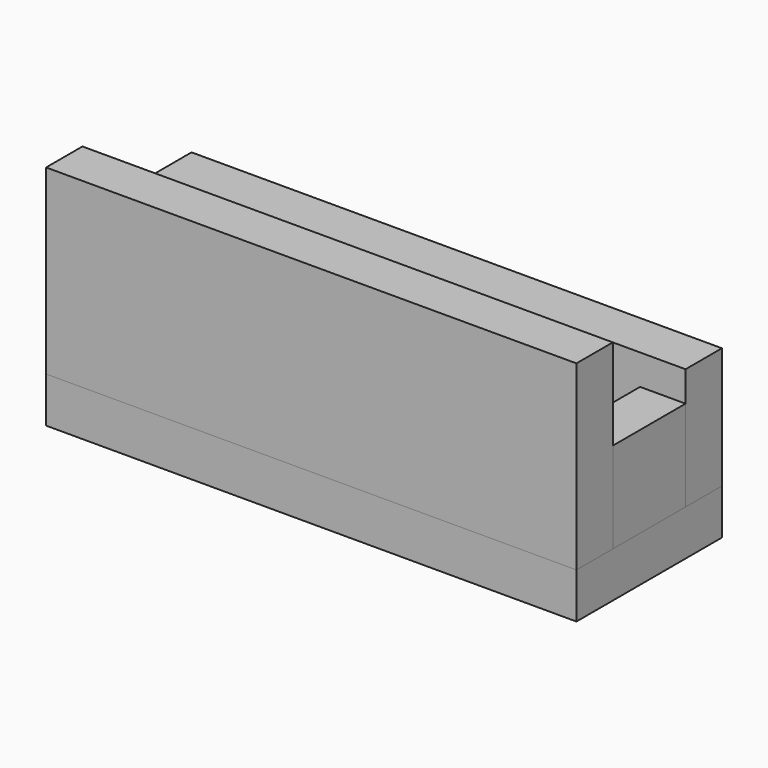
from build123d import *

# Parameters (mm, degrees)
F0_W     = 92.075
F0_H     = 19.05
F0_W_2   = 9.525
F1_DEPTH = 9.525
F2_DEPTH = 19.05
F3_DEPTH = 25.4
F4_DEPTH = 38.1


with BuildPart() as f1:
    # F0 (on Top) → F1 (new body)
    with BuildSketch(Plane.XY):
        Rectangle(F0_W, F0_H)
        Polygon((46.0375, -9.525), (-46.0375, -9.525), (-55.5625, -9.525), (-55.5625, -19.05), (55.5625, -19.05), (55.5625, -9.525), align=None)
        with Locations((50.8, 0)):
            Rectangle(F0_W_2, F0_H)
        Polygon((-55.5625, 9.525), (-46.0375, 9.525), (46.0375, 9.525), (55.5625, 9.525), (55.5625, 19.05), (-55.5625, 19.05), align=None)
        with Locations((-50.8, 0)):
            Rectangle(F0_W_2, F0_H)
    extrude(amount=-F1_DEPTH)


with BuildPart() as f2:
    # F0 (on Top) → F2 (new body)
    with BuildSketch(Plane.XY):
        with Locations((50.8, 0)):
            Rectangle(F0_W_2, F0_H)
        with Locations((-50.8, 0)):
            Rectangle(F0_W_2, F0_H)
    extrude(amount=F2_DEPTH)


with BuildPart() as f3:
    # F0 (on Top) → F3 (new body)
    with BuildSketch(Plane.XY):
        Polygon((-55.5625, 9.525), (-46.0375, 9.525), (46.0375, 9.525), (55.5625, 9.525), (55.5625, 19.05), (-55.5625, 19.05), align=None)
    extrude(amount=F3_DEPTH)


with BuildPart() as f4:
    # F0 (on Top) → F4 (new body)
    with BuildSketch(Plane.XY):
        Polygon((46.0375, -9.525), (-46.0375, -9.525), (-55.5625, -9.525), (-55.5625, -19.05), (55.5625, -19.05), (55.5625, -9.525), align=None)
    extrude(amount=F4_DEPTH)


solid = Compound([f1.part, f2.part, f3.part, f4.part])
